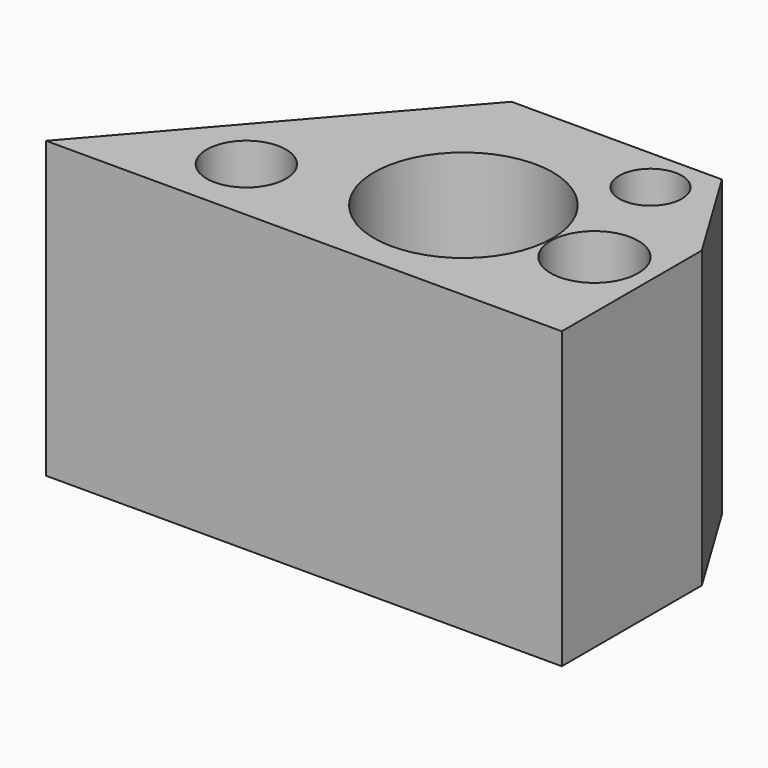
from build123d import *

# Parameters (mm, degrees)
F1_DEPTH = 25.4
F2_R     = 7.692032
F3_DEPTH = 25.4
F5_R     = 2.696649
F5_R_2   = 3.774417
F5_R_3   = 3.413238
F6_DEPTH = 25.4


with BuildPart() as f1:
    # F0 (on Top) → F1 (new body)
    with BuildSketch(Plane.XY):
        Polygon((20.889619, 24.00038), (0, 0), (44.420268, 0), (44.420268, 15.078895), (39.012816, 24.00038), align=None)
    extrude(amount=-F1_DEPTH)

    # F2 (on face) → F3 (cut)
    with BuildSketch(Plane(origin=(0, 0, -25.4), x_dir=(1, 0, 0), z_dir=(0, 0, -1))):
        with Locations((27.78032, -10.206683)):
            Circle(F2_R)
    extrude(amount=-F3_DEPTH, mode=Mode.SUBTRACT)

    # F5 (on face) → F6 (cut)
    with BuildSketch(Plane.XY):
        with Locations((35.97071, 20.118631)):
            Circle(F5_R)
        with Locations((39.374083, 9.826504)):
            Circle(F5_R_2)
        with Locations((12.639156, 5.767059)):
            Circle(F5_R_3)
    extrude(amount=-F6_DEPTH, mode=Mode.SUBTRACT)


solid = f1.part
